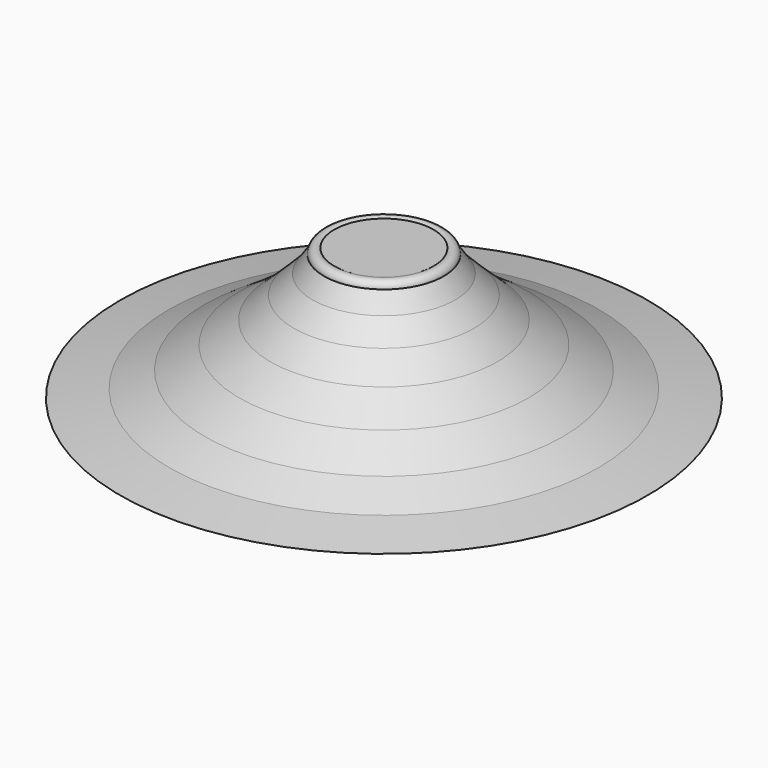
from build123d import *


with BuildPart() as f1:
    # F0 (on Front) → F1 (revolve)
    with BuildSketch(Plane.XZ):
        with BuildLine():
            Line((-1200, 0), (0, 0))
            Line((0, 0), (0, 600))
            Line((0, 600), (-225.6608514491, 600))
            ThreePointArc((-225.6608514491, 600), (-215.8101550324, 589.1863716546), (-212.2439754009, 575))
            ThreePointArc((-212.2439754009, 575), (-242.3783227085, 545.0003008215), (-272.242772121, 575.2686919208))
            Line((-272.242772121, 575.2686919208), (-324.8841910881, 497.4312875862))
            Line((-324.8841910881, 497.4312875862), (-409.9812209606, 411.2867414951))
            Line((-409.9812209606, 411.2867414951), (-516.2763595581, 311.8493556976))
            Line((-516.2763595581, 311.8493556976), (-656.8602919579, 212.411954999))
            Line((-656.8602919579, 212.411954999), (-814.5885467529, 109.5456704497))
            Line((-814.5885467529, 109.5456704497), (-975.7457375526, 37.539280951))
            Line((-975.7457375526, 37.539280951), (-1200, 0))
        make_face()
        with BuildLine():
            ThreePointArc((-212.2439754009, 575), (-215.8101550324, 589.1863716546), (-225.6608514491, 600))
            Line((-225.6608514491, 600), (-255.5169940541, 600))
            Line((-255.5169940541, 600), (-272.242772121, 575.2686919208))
            ThreePointArc((-272.242772121, 575.2686919208), (-242.3783227085, 545.0003008215), (-212.2439754009, 575))
        make_face()
        with BuildLine():
            Line((-255.5169940541, 600), (-225.6608514491, 600))
            ThreePointArc((-225.6608514491, 600), (-256.3118277169, 601.4970853344), (-272.242772121, 575.2686919208))
            Line((-272.242772121, 575.2686919208), (-255.5169940541, 600))
        make_face()
    revolve(axis=Axis((0, 0, 300), (0, 0, 1)))


solid = f1.part
